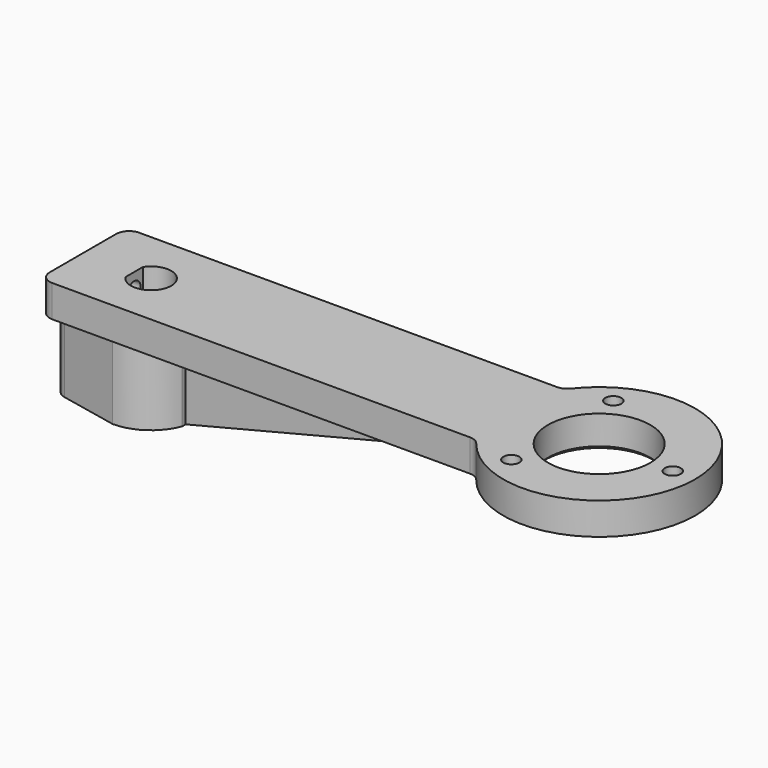
from build123d import *

# Parameters (mm, degrees)
PAD_DEPTH       = 12
SKETCH004_R     = 8
SKETCH004_R_2   = 1.25
PAD001_DEPTH    = 5
SKETCH005_R     = 1.25
POCKET_DEPTH    = 8
PAD002_DEPTH    = 2
FILLET_R        = 2
CHAMFER_SIZE    = 0.6
CHAMFER001_SIZE = 0.5
FILLET001_R     = 2
FILLET002_R     = 2
CHAMFER002_SIZE = 0.6


with BuildPart() as part:
    # Sketch002 → Pad (new body)
    with BuildSketch(Plane.XY):
        with BuildLine():
            ThreePointArc((0, -7.5), (4.245918, -6.182409), (7, -2.692582))
            Line((7, 2.692582), (7, -2.692582))
            ThreePointArc((7, 2.692582), (4.245918, 6.182409), (0, 7.5))
            Line((-10.65, 5.289572), (0, 7.5))
            Line((-10.65, 5.289572), (-10.65, -5.289572))
            Line((-10.65, -5.289572), (0, -7.5))
        make_face()
        with BuildLine():
            ThreePointArc((-2.65, -1.702939), (3.15, 0), (-2.65, 1.702939))
            Line((-2.65, 1.702939), (-2.65, -1.702939))
        make_face(mode=Mode.SUBTRACT)
    extrude(amount=PAD_DEPTH)

    # Sketch004 → Pad001 (join)
    with BuildSketch(Plane.XY.offset(12)):
        with BuildLine():
            Line((-10.65, 8.5), (57.640793, 8.5))
            ThreePointArc((57.640793, -8.5), (85, 0), (57.640793, 8.5))
            Line((57.640793, -8.5), (-10.65, -8.5))
            Line((-10.65, -8.5), (-10.65, 8.5))
        make_face()
        with Locations((70, 0)):
            Circle(SKETCH004_R, mode=Mode.SUBTRACT)
        with Locations((64.25, 9.959292)):
            Circle(SKETCH004_R_2, mode=Mode.SUBTRACT)
        with Locations((81.5, 0)):
            Circle(SKETCH004_R_2, mode=Mode.SUBTRACT)
        with Locations((64.25, -9.959292)):
            Circle(SKETCH004_R_2, mode=Mode.SUBTRACT)
        with BuildLine():
            ThreePointArc((-2.65, -1.702939), (3.15, 0), (-2.65, 1.702939))
            Line((-2.65, 1.702939), (-2.65, -1.702939))
        make_face(mode=Mode.SUBTRACT)
    extrude(amount=PAD001_DEPTH)

    # Sketch005 (on Face1 of Pad001) → Pocket (cut)
    with BuildSketch(Plane(origin=(-10.65, 0, 0), x_dir=(0, -1, 0), z_dir=(-1, 0, 0))):
        with Locations((0, 14.5)):
            Circle(SKETCH005_R)
        with Locations((0, 8.5)):
            Circle(SKETCH005_R)
        with Locations((0, 2.5)):
            Circle(SKETCH005_R)
    extrude(amount=-POCKET_DEPTH, mode=Mode.SUBTRACT)

    # Sketch006 (on Face16 of Pocket) → Pad002 (join, symmetric)
    with BuildSketch(Plane(origin=(0, 0, 0), x_dir=(-1, 0, 0), z_dir=(0, 1, 0))):
        Polygon((-7, 0), (-55, 12), (-7, 12), align=None)
    extrude(amount=PAD002_DEPTH, both=True)

    # Fillet
    fillet_edges = [part.edges().sort_by_distance(p)[0] for p in [
        (-10.65, 8.5, 14.5),
        (-10.65, 5.289572, 6),
        (-10.65, -5.289572, 6),
        (-10.65, -8.5, 14.5),
    ]]
    fillet(fillet_edges, radius=FILLET_R)

    # Chamfer
    chamfer_edges = [part.edges().sort_by_distance(p)[0] for p in [
        (3.15, 0, 0),
        (-2.65, 0, 0),
    ]]
    chamfer(chamfer_edges, length=CHAMFER_SIZE)

    # Chamfer001
    chamfer001_edges = [part.edges().sort_by_distance(p)[0] for p in [
        (62, 0, 12),
    ]]
    chamfer(chamfer001_edges, length=CHAMFER001_SIZE)

    # Fillet001
    fillet001_edges = [part.edges().sort_by_distance(p)[0] for p in [
        (57.640793, 8.5, 14.5),
    ]]
    fillet(fillet001_edges, radius=FILLET001_R)

    # Fillet002
    fillet002_edges = [part.edges().sort_by_distance(p)[0] for p in [
        (57.640793, -8.5, 14.5),
    ]]
    fillet(fillet002_edges, radius=FILLET002_R)

    # Chamfer002
    chamfer002_edges = [part.edges().sort_by_distance(p)[0] for p in [
        (-10.65, 1.25, 2.5),
        (-10.65, 1.25, 8.5),
        (-10.65, 1.25, 14.5),
    ]]
    chamfer(chamfer002_edges, length=CHAMFER002_SIZE)


solid = part.part
